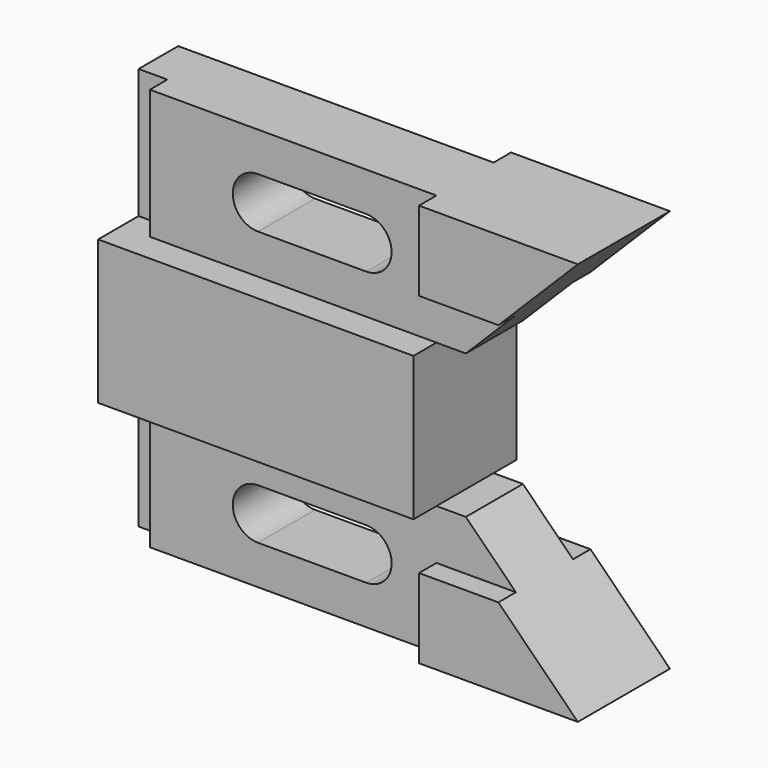
from build123d import *

# Parameters (mm, degrees)
F1_DEPTH = 14.224
F2_DEPTH = 7.874
F3_DEPTH = 7.874
F5_DEPTH = 4.826
F6_DEPTH = 25.4
F7_W     = 4.826
F7_H     = 28.575
F8_DEPTH = 6.35


with BuildPart() as f1:
    # F0 (on Front) → F1 (new body, symmetric)
    with BuildSketch(Plane.XZ):
        Polygon((-44.3352609873, 15.875), (-44.3352609873, 0), (-44.3352609873, -15.875), (25.2607390127, -15.875), (25.2607390127, 0), (25.2607390127, 15.875), align=None)
    extrude(amount=F1_DEPTH, both=True)

    # F0 (on Front) → F2 (join, symmetric)
    with BuildSketch(Plane.XZ):
        Polygon((25.2607390127, -15.875), (-44.3352609873, -15.875), (-44.3352609873, -44.45), (60.3127390127, -44.45), (31.7377390127, -15.875), align=None)
        with BuildLine():
            ThreePointArc((9.7667390127, -24.638), (13.718051706, -26.2746873067), (15.3547390127, -30.226))
            ThreePointArc((15.3547390127, -30.226), (13.7180517062, -34.177312693), (9.7667390134, -35.814))
            Line((9.7667390134, -35.814), (-14.1092609873, -35.814))
            ThreePointArc((-14.1092609873, -35.814), (-18.0605736806, -34.1773126933), (-19.6972609873, -30.226))
            ThreePointArc((-19.6972609873, -30.226), (-18.0605736745, -26.2746873007), (-14.1092609702, -24.638))
            Line((-14.1092609702, -24.638), (9.7667390127, -24.638))
        make_face(mode=Mode.SUBTRACT)
    extrude(amount=F2_DEPTH, both=True)

    # F0 (on Front) → F3 (join, symmetric)
    with BuildSketch(Plane.XZ):
        Polygon((-44.3352609873, 44.45), (-44.3352609873, 15.875), (25.2607390127, 15.875), (31.7377390127, 15.875), (60.3127390127, 44.45), align=None)
        with BuildLine():
            ThreePointArc((-19.6972609873, 30.226), (-18.0605736806, 34.1773126933), (-14.1092609873, 35.814))
            Line((-14.1092609873, 35.814), (9.7667390127, 35.814))
            ThreePointArc((9.7667390127, 35.814), (13.718051706, 34.1773126933), (15.3547390127, 30.226))
            ThreePointArc((15.3547390127, 30.226), (13.718051706, 26.2746873067), (9.7667390127, 24.638))
            Line((9.7667390127, 24.638), (-14.1092610119, 24.638))
            ThreePointArc((-14.1092610119, 24.638), (-18.0605736893, 26.2746873154), (-19.6972609873, 30.226))
        make_face(mode=Mode.SUBTRACT)
    extrude(amount=F3_DEPTH, both=True)

    # F4 (on face) → F5 (join)
    with BuildSketch(Plane.XZ.offset(7.874)):
        Polygon((60.3127390127, 44.45), (25.2607390127, 44.45), (25.2607390127, 26.924), (42.7867390127, 26.924), align=None)
        Polygon((25.2607390127, -44.45), (60.3127390127, -44.45), (42.7867390127, -26.924), (25.2607390127, -26.924), align=None)
    extrude(amount=F5_DEPTH)

    # F6 (add): faces of the model
    f6_faces = [f1.faces().sort_by_distance(p)[0] for p in [
        (38.8920723461, -12.7, 36.6606666667),
        (38.8920723461, -12.7, -36.6606666667),
    ]]
    extrude(f6_faces, amount=-F6_DEPTH)

    # F7 (on face) → F8 (cut)
    with BuildSketch(Plane(origin=(-44.3352609873, 0, 0), x_dir=(0, -1, 0), z_dir=(-1, 0, 0))):
        with Locations((5.461, 30.1625)):
            Rectangle(F7_W, F7_H)
        with Locations((5.461, -30.1625)):
            Rectangle(F7_W, F7_H)
    extrude(amount=-F8_DEPTH, mode=Mode.SUBTRACT)


solid = f1.part
